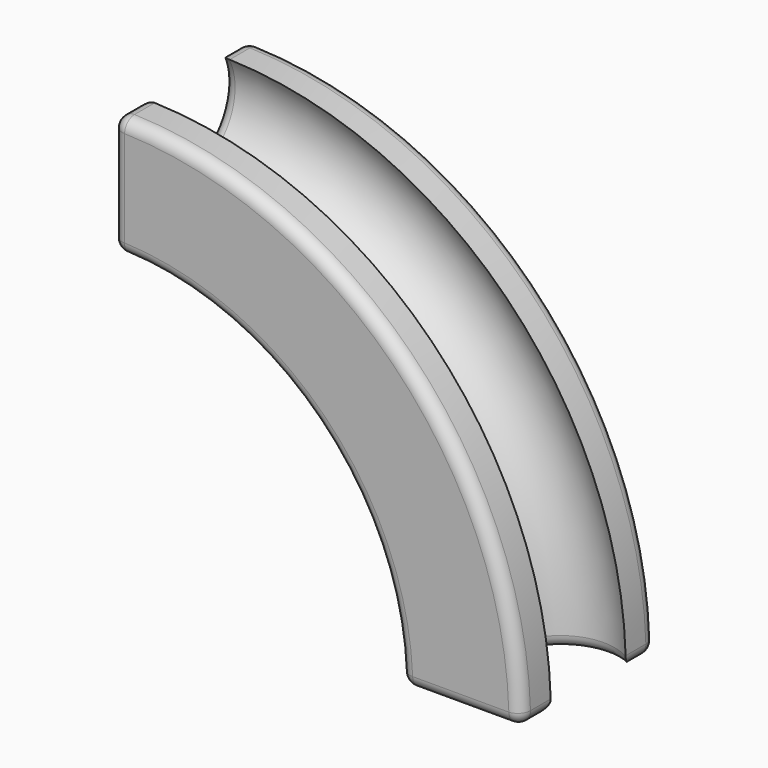
from build123d import *

# Parameters (mm, degrees)
F3_R = 0.5


with BuildPart() as f2:
    # F2: sweep along a path in F1
    with BuildLine(Plane.XZ) as f2_path:
        ThreePointArc((17, 0), (12.0208152802, 12.0208152802), (0, 17))
    # F0 (on Top) → F2 (sweep)
    with BuildSketch(Plane.XY):
        with BuildLine():
            ThreePointArc((17, 1.5514428415), (13.625, 3.5), (17, 5.4485571585))
            Line((17, 5.4485571585), (17, 7))
            Line((17, 7), (12, 7))
            Line((12, 7), (12, 0))
            Line((12, 0), (17, 0))
            Line((17, 0), (17, 1.5514428415))
        make_face()
    sweep(path=f2_path.line)

    # F3
    f3_edges = [f2.edges().sort_by_distance(p)[0] for p in [
        (8.485281, 7, 8.485281),
        (12, 3.5, 0),
        (8.485281, 0, 8.485281),
        (0, 3.5, 12),
        (13.625, 3.5, 0),
        (17, 6.224279, 0),
        (14.5, 7, 0),
        (14.5, 0, 0),
        (17, 0.775721, 0),
        (0, 3.5, 13.625),
        (0, 6.224279, 17),
        (0, 7, 14.5),
        (0, 0, 14.5),
        (0, 0.775721, 17),
        (12.020815, 7, 12.020815),
        (12.020815, 0, 12.020815),
    ]]
    fillet(f3_edges, radius=F3_R)


solid = f2.part
